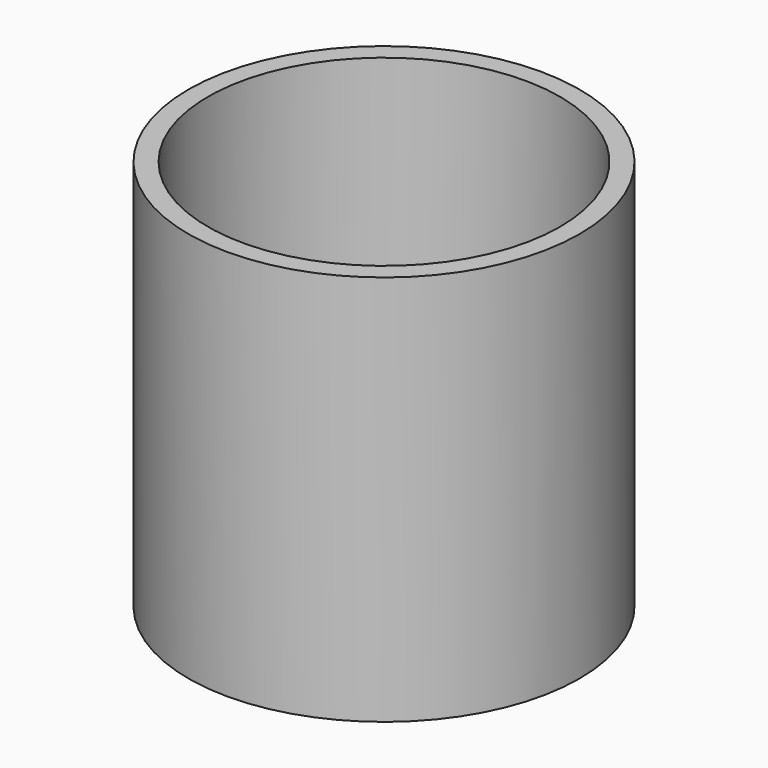
from build123d import *

# Parameters (mm, degrees)
F0_R     = 25
F1_DEPTH = 50
F2_T     = -2.5
F4_D     = 10
F6_D     = 15


with BuildPart() as f1:
    # F0 (on Top) → F1 (new body)
    with BuildSketch(Plane.XY):
        Circle(F0_R)
    extrude(amount=F1_DEPTH)

    # F2
    f2_openings = [f1.faces().sort_by_distance(p)[0] for p in [
        (0, 0, 50),
    ]]
    offset(amount=F2_T, openings=f2_openings)

    # F4 (through all)
    with Locations(Plane.XY.offset(2.5)):
        with Locations((0, 0)):
            Hole(F4_D / 2)

    # F6 (through all)
    with Locations(Plane.XY.offset(2.5)):
        with Locations((9.350582, -11.090602)):
            Hole(F6_D / 2)


solid = f1.part
